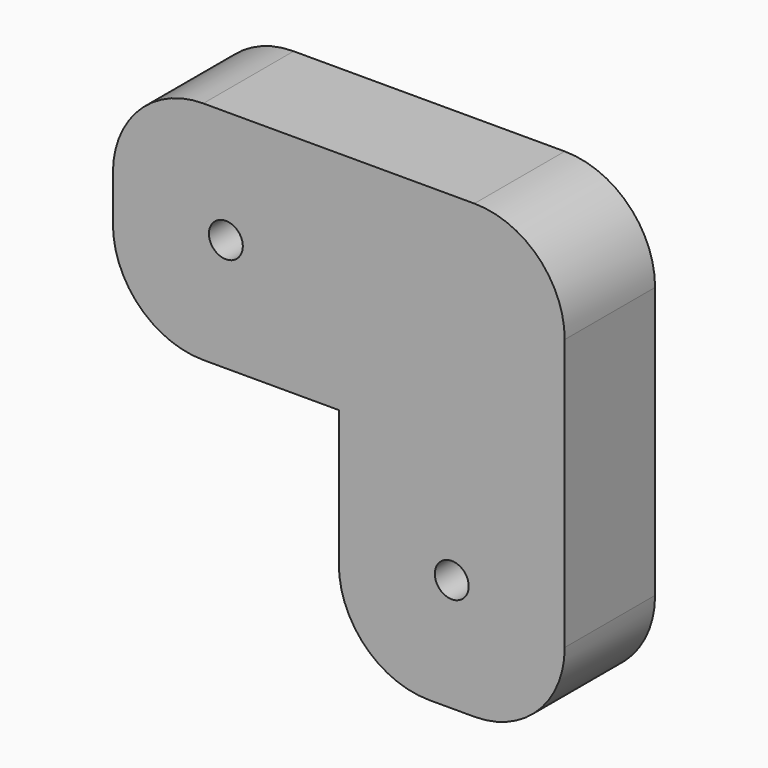
from build123d import *

# Parameters (mm, degrees)
F0_R     = 1.5
F1_DEPTH = 10
F2_R     = 8


with BuildPart() as f1:
    # F0 (on Front) → F1 (new body)
    with BuildSketch(Plane.XZ):
        Polygon((-27.153525, -22.913478), (-7.153525, -22.913478), (-7.153525, -2.913478), (-7.153525, 17.086522), (-27.153525, 17.086522), (-47.153525, 17.086522), (-47.153525, -2.913478), (-27.153525, -2.913478), align=None)
        with Locations((-17.153525, -12.913478)):
            Circle(F0_R, mode=Mode.SUBTRACT)
        with Locations((-37.153525, 7.086522)):
            Circle(F0_R, mode=Mode.SUBTRACT)
    extrude(amount=F1_DEPTH)

    # F2
    f2_edges = [f1.edges().sort_by_distance(p)[0] for p in [
        (-7.153525, -5, 17.086522),
        (-47.153525, -5, 17.086522),
        (-47.153525, -5, -2.913478),
        (-27.153525, -5, -22.913478),
        (-7.153525, -5, -22.913478),
    ]]
    fillet(f2_edges, radius=F2_R)


solid = f1.part
